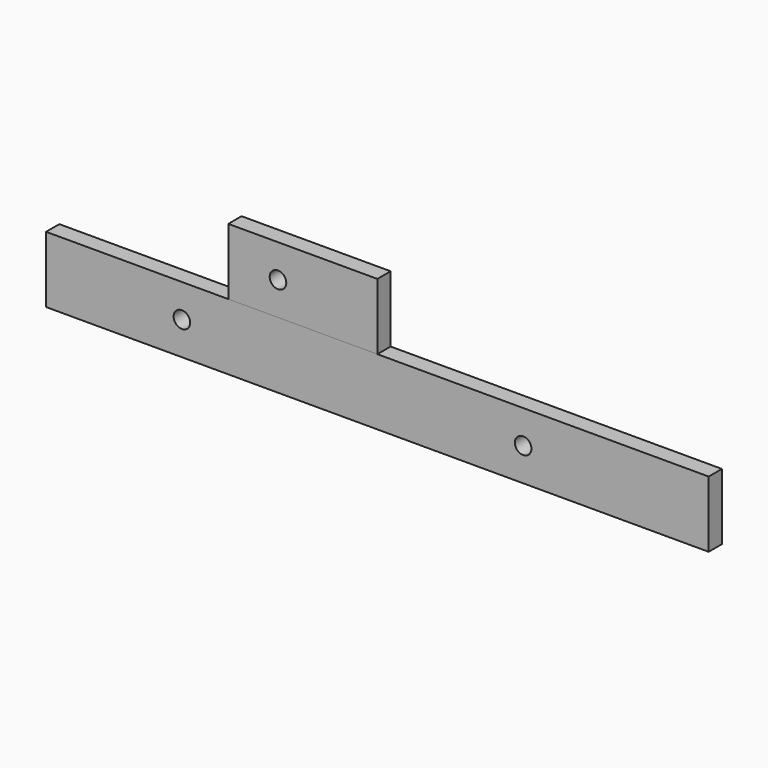
from build123d import *

# Parameters (mm, degrees)
F0_R     = 2.5
F1_DEPTH = 5
F3_DEPTH = 5


with BuildPart() as f1:
    # F0 (on Front) → F1 (new body)
    with BuildSketch(Plane.XZ):
        Polygon((100, 0), (0, 0), (-100, 0), (-100, -20), (100, -20), align=None)
        with Locations((-59, -10)):
            Circle(F0_R, mode=Mode.SUBTRACT)
        with Locations((44, -10)):
            Circle(F0_R, mode=Mode.SUBTRACT)
    extrude(amount=F1_DEPTH)


with BuildPart() as f3:
    # F2 (on Front) → F3 (new body)
    with BuildSketch(Plane.XZ):
        Polygon((-45, 0), (0, 0), (0, 20), (-45, 20), (-45, 10), align=None)
        with BuildLine():
            ThreePointArc((-27.5, 10), (-30, 7.5), (-32.5, 10))
            ThreePointArc((-32.5, 10), (-30, 12.5), (-27.5, 10))
        make_face(mode=Mode.SUBTRACT)
    extrude(amount=F3_DEPTH)


solid = Compound([f1.part, f3.part])
